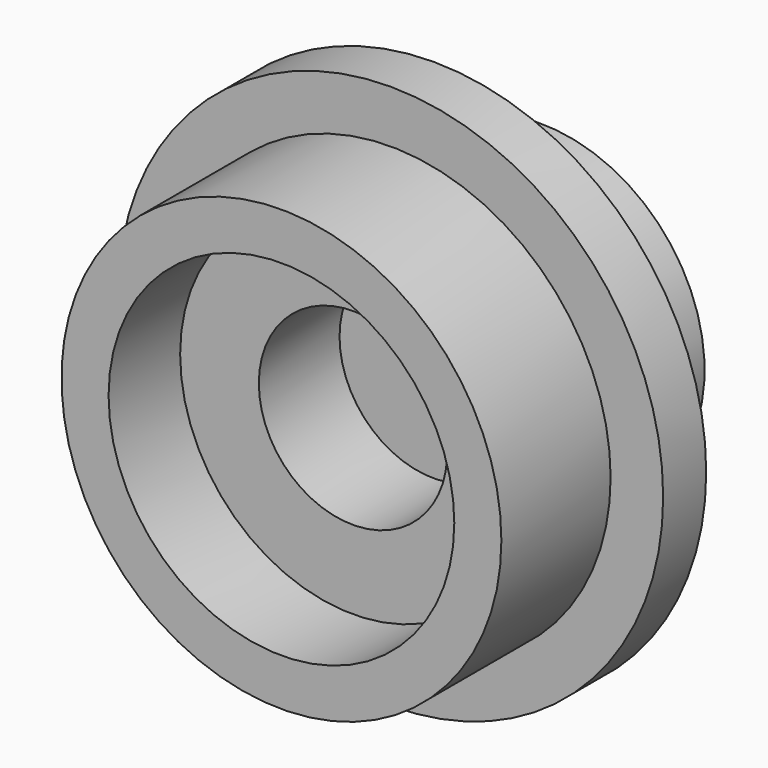
from build123d import *

# Parameters (mm, degrees)
F0_R      = 3.27
F1_DEPTH  = 2.03
F2_T      = -0.7
F3_R      = 4.0513442958
F2_FACE_R = 2.57
F4_DEPTH  = 0.8
F5_R      = 1.4
F6_DEPTH  = 25
F7_R      = 2.435
F7_R_2    = 1.4
F8_DEPTH  = 1.99


with BuildPart() as f1:
    # F0 (on Front) → F1 (new body)
    with BuildSketch(Plane.XZ):
        with Locations((12.0934098959, 11.7125157267)):
            Circle(F0_R)
    extrude(amount=F1_DEPTH)

    # F2
    f2_openings = [f1.faces().sort_by_distance(p)[0] for p in [
        (12.09341, -2.03, 11.712516),
    ]]
    offset(amount=F2_T, openings=f2_openings)

    # F3 (on face) + F2_face (on face) → F4 (join)
    with BuildSketch(Plane(origin=(0, 0, 0), x_dir=(-1, 0, 0), z_dir=(0, 1, 0))):
        with Locations((-12.0934098959, 11.7125157267)):
            Circle(F3_R)
    with BuildSketch(Plane(origin=(12.0934098959, -0.7, 11.7125157267), x_dir=(1, 0, 0), z_dir=(0, -1, 0))):
        Circle(F2_FACE_R)
    extrude(amount=F4_DEPTH, dir=(0, 1, 0))

    # F5 (on face) → F6 (cut)
    with BuildSketch(Plane(origin=(0, 0.8, 0), x_dir=(-1, 0, 0), z_dir=(0, 1, 0))):
        with Locations((-12.0934098959, 11.7125157267)):
            Circle(F5_R)
    extrude(amount=-F6_DEPTH, mode=Mode.SUBTRACT)


with BuildPart() as f8:
    # F7 (on face) → F8 (new body)
    with BuildSketch(Plane(origin=(0, 0.8, 0), x_dir=(-1, 0, 0), z_dir=(0, 1, 0))):
        with Locations((-12.0934098959, 11.7125157267)):
            Circle(F7_R)
        with Locations((-12.0934098959, 11.7125157267)):
            Circle(F7_R_2, mode=Mode.SUBTRACT)
        with Locations((-12.0934098959, 11.7125157267)):
            Circle(F7_R_2)
    extrude(amount=F8_DEPTH)


solid = Compound([f1.part, f8.part])
